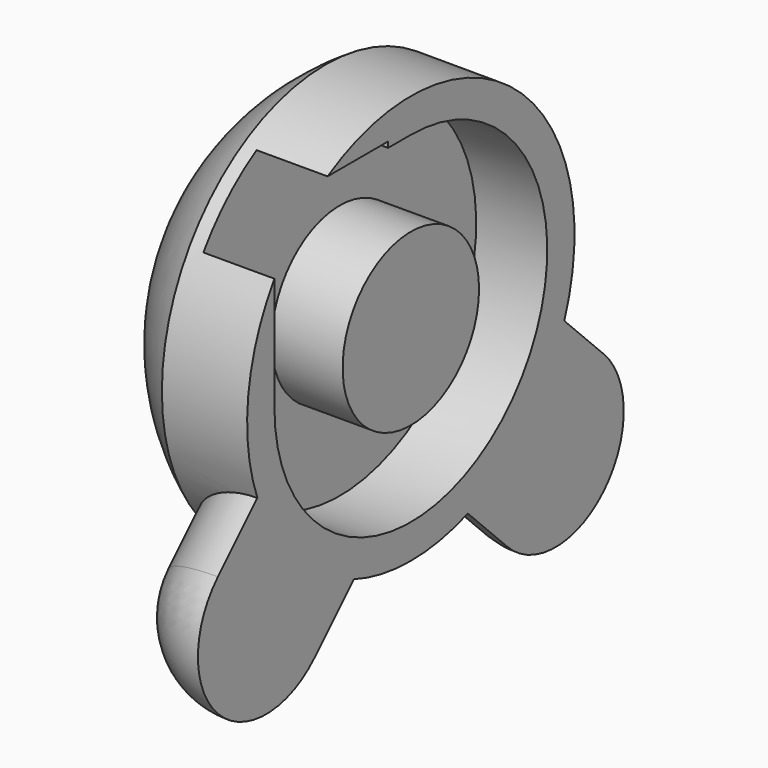
from build123d import *

# Parameters (mm, degrees)
F1_W     = 7.62
F1_H     = 18.288
F4_ANGLE = 180
F5_ANGLE = -180
F0_R     = 7.62
F0_W     = 12.7
F0_H     = 0.508
F6_DEPTH = 6.35


with BuildPart() as f2:
    # F1 (on Front) → F2 (revolve)
    with BuildSketch(Plane.XZ):
        with Locations((-3.81, 9.144)):
            Rectangle(F1_W, F1_H)
        with BuildLine():
            Line((-7.62, 0), (-7.62, 18.288))
            ThreePointArc((-7.62, 18.288), (-15.069448, 10.46036), (-17.78, 0))
            Line((-17.78, 0), (-7.62, 0))
        make_face()
    revolve(axis=Axis((-3.81, 0, 0), (-1, 0, 0)))

    # F3 (on Right) → F4 (revolve)
    with BuildSketch(Plane.YZ):
        Polygon((-16.164461, -16.164461), (-7.184205, -7.184205), (-12.572359, -1.796051), (-21.552615, -10.776307), align=None)
        with BuildLine():
            Line((-21.552615, -21.552615), (-16.164461, -16.164461))
            Line((-16.164461, -16.164461), (-21.552615, -10.776307))
            ThreePointArc((-21.552615, -10.776307), (-23.784461, -16.164461), (-21.552615, -21.552615))
        make_face()
    revolve(axis=Axis((0, -8.082231, -8.082231), (0, -0.707107, -0.707107)), revolution_arc=F4_ANGLE)

    # F3 (on Right) → F5 (revolve)
    with BuildSketch(Plane.YZ):
        Polygon((12.572359, -1.796051), (7.184205, -7.184205), (16.164461, -16.164461), (21.552615, -10.776307), align=None)
        with BuildLine():
            Line((21.552615, -10.776307), (16.164461, -16.164461))
            Line((16.164461, -16.164461), (21.552615, -21.552615))
            ThreePointArc((21.552615, -21.552615), (23.784461, -16.164461), (21.552615, -10.776307))
        make_face()
    revolve(axis=Axis((0, 8.082231, -8.082231), (0, 0.707107, -0.707107)), revolution_arc=F5_ANGLE)

    # F0 (on Right) → F6 (cut)
    with BuildSketch(Plane.YZ):
        with BuildLine():
            Line((-15.24, 15.24), (-25.4, 15.24))
            Line((-25.4, 15.24), (-25.4, 10.16))
            Line((-25.4, 10.16), (-15.24, 10.16))
            Line((-15.24, 10.16), (-15.24, 0))
            ThreePointArc((-15.24, 0), (10.776307, -10.776307), (0, 15.24))
            Line((0, 15.24), (-2.54, 15.24))
            Line((-2.54, 15.24), (-15.24, 15.24))
        make_face()
        Circle(F0_R, mode=Mode.SUBTRACT)
        with Locations((-8.89, 15.494)):
            Rectangle(F0_W, F0_H)
    extrude(amount=-F6_DEPTH, mode=Mode.SUBTRACT)


solid = f2.part
